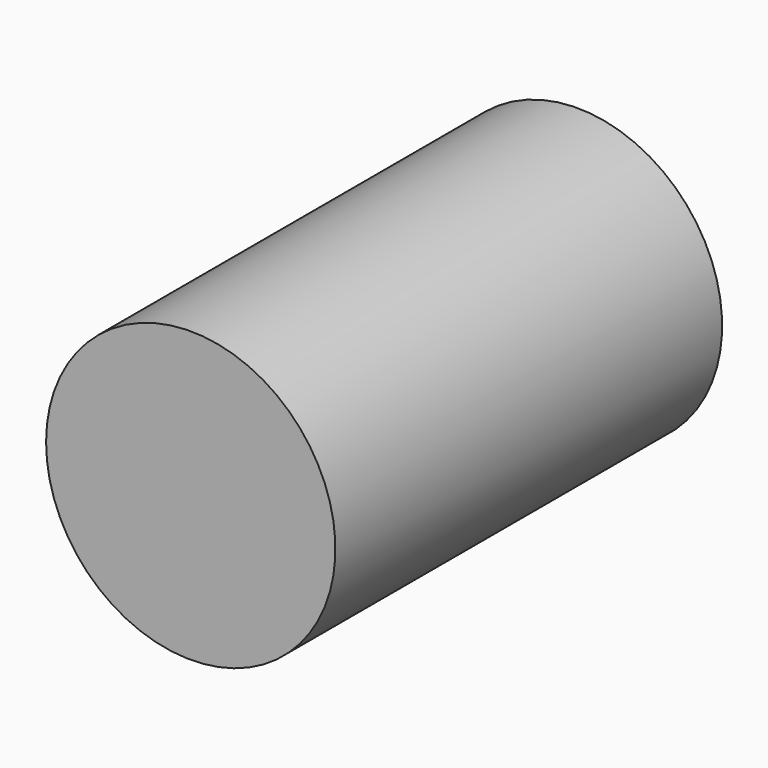
from build123d import *

# Parameters (mm, degrees)
F0_W     = 26.393443346
F0_H     = 100.6967276335
F2_DEPTH = 12.5


with BuildPart() as f1:
    # F0 (on Top) → F1 (revolve)
    with BuildSketch(Plane.XY):
        with Locations((-13.196721673, 0)):
            Rectangle(F0_W, F0_H)
    revolve(axis=Axis((0, 0, 0), (0, 1, 0)))

    # F2 (cut, symmetric): a face of the model
    f2_faces = [f1.faces().sort_by_distance(p)[0] for p in [
        (0, 50.3483638167, 0),
    ]]
    extrude(f2_faces, amount=F2_DEPTH, both=True, mode=Mode.SUBTRACT)


solid = f1.part
